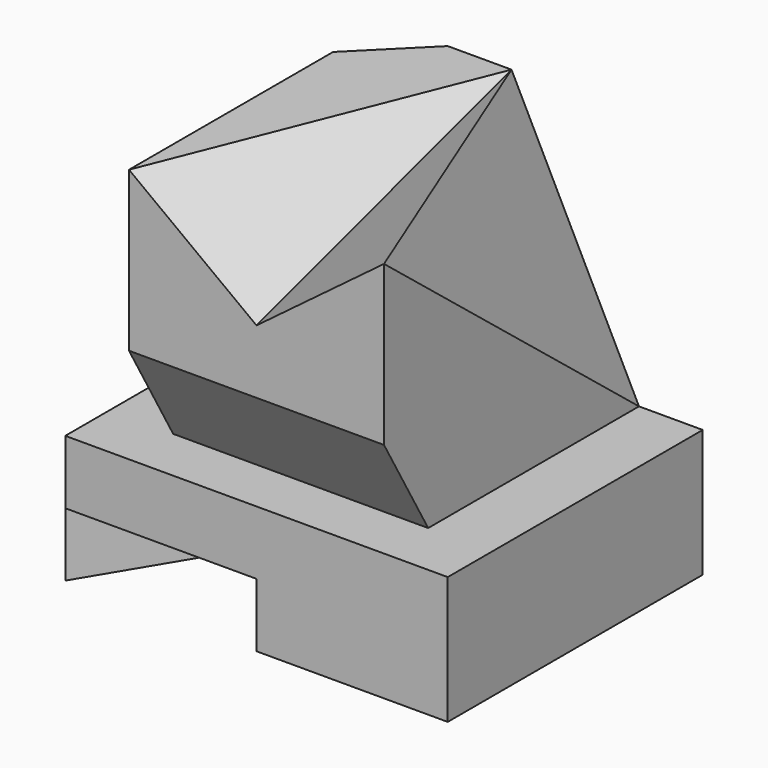
from build123d import *

# Parameters (mm, degrees)
F0_W     = 40
F0_H     = 40
F1_DEPTH = 50
F3_DEPTH = 10
F5_DEPTH = 40
F6_SIZE  = 10


with BuildPart() as f1:
    # F0 (on Front) → F1 (new body)
    with BuildSketch(Plane.XZ):
        Polygon((0, 20), (0, 0), (60, 0), (60, 20), (50, 20), (10, 20), align=None)
        with Locations((30, 40)):
            Rectangle(F0_W, F0_H)
    extrude(amount=-F1_DEPTH)

    # F2 (on face) → F3 (cut)
    with BuildSketch(Plane(origin=(0, 0, 0), x_dir=(1, 0, 0), z_dir=(0, 0, -1))):
        Polygon((30, 0), (0, 0), (30, -50), (60, -50), align=None)
    extrude(amount=-F3_DEPTH, mode=Mode.SUBTRACT)

    # F4 (on face) → F5 (cut, through all)
    with BuildSketch(Plane.YZ.offset(50)):
        Polygon((0, 35), (0, 20), (8.6602540378, 20), align=None)
    extrude(amount=-F5_DEPTH, mode=Mode.SUBTRACT)

    # F6
    f6_edges = [f1.edges().sort_by_distance(p)[0] for p in [
        (10, 50, 40),
    ]]
    chamfer(f6_edges, length=F6_SIZE)

    # F9: sweep along a path in F8
    with BuildLine(Plane.YZ.offset(50)) as f9_path:
        Line((0, 45), (50, 60))
    # F7 (on face) → F9 (sweep, cut)
    with BuildSketch(Plane.XZ):
        Polygon((50, 60), (10, 60), (30, 45), align=None)
    sweep(path=f9_path.line, mode=Mode.SUBTRACT)

    # F12: sweep along a path in F11
    with BuildLine(Plane.YZ.offset(50)) as f12_path:
        Line((0, 60), (50, 20))
    # F10 (on face) → F12 (sweep, cut)
    with BuildSketch(Plane(origin=(0, 50, 0), x_dir=(-1, 0, 0), z_dir=(0, 1, 0))):
        Polygon((-50, 20), (-30, 60), (-50, 60), align=None)
    sweep(path=f12_path.line, mode=Mode.SUBTRACT)


solid = f1.part
